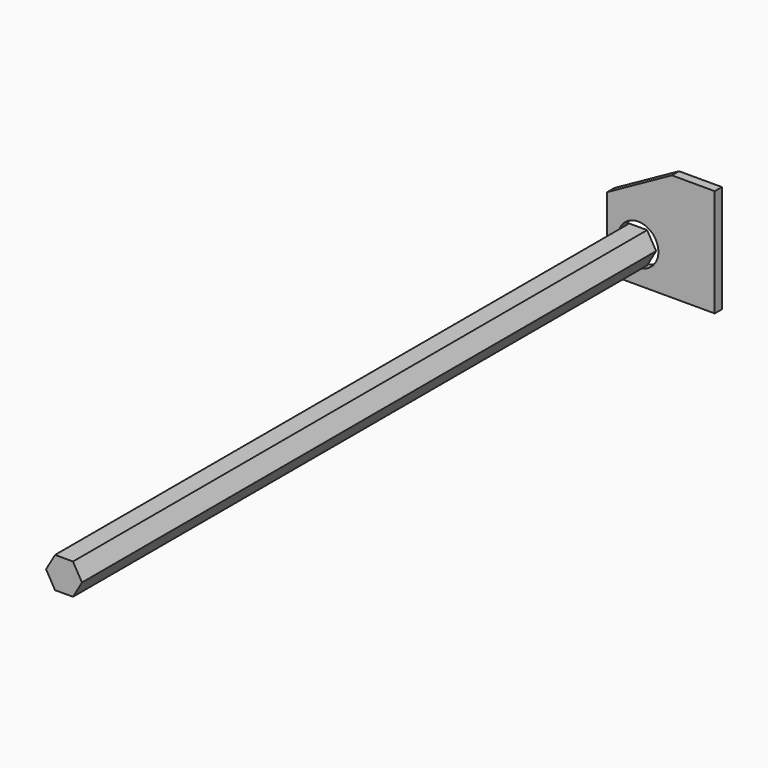
from build123d import *

# Parameters (mm, degrees)
F0_R     = 14.2875
F1_DEPTH = 6.35
F3_DEPTH = 508


with BuildPart() as f1:
    # F0 (on Front) → F1 (new body)
    with BuildSketch(Plane.XZ):
        Polygon((-76.2, -76.2), (0, -76.2), (0, 0), (-30.343117, 0), (-76.2, -25.4), align=None)
        with Locations((-54.173477, -50.8)):
            Circle(F0_R, mode=Mode.SUBTRACT)
    extrude(amount=F1_DEPTH)


with BuildPart() as f3:
    # F2 (on face) → F3 (new body)
    with BuildSketch(Plane.XZ.offset(6.35)):
        Polygon((-47.823477, -39.801477), (-60.523477, -39.801477), (-66.873477, -50.8), (-60.523477, -61.798523), (-47.823477, -61.798523), (-41.473477, -50.8), align=None)
    extrude(amount=F3_DEPTH)


solid = Compound([f1.part, f3.part])
